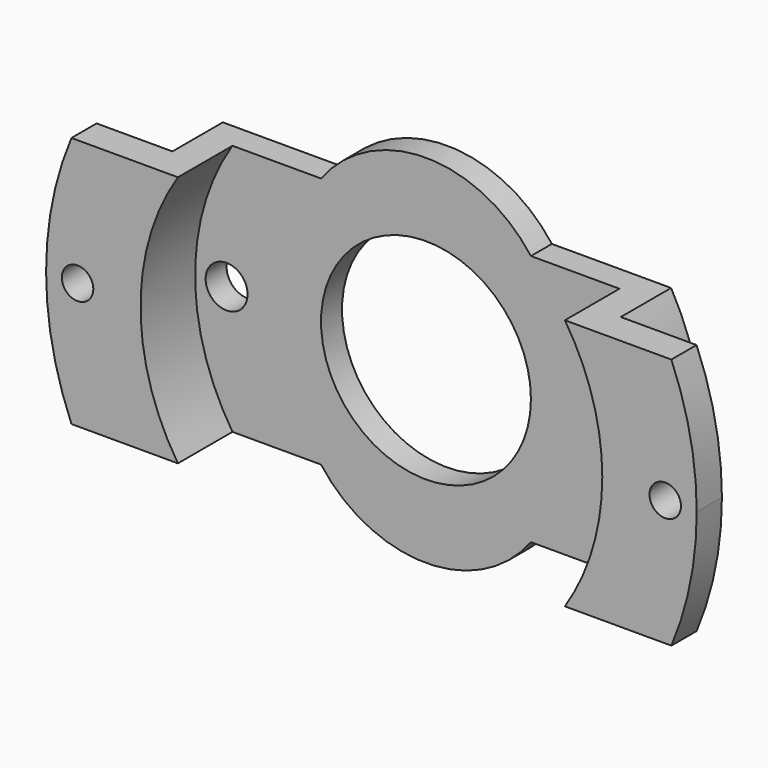
from build123d import *

# Parameters (mm, degrees)
F0_R     = 2
F0_R_2   = 10
F1_DEPTH = 2.5
F2_DEPTH = 9
F3_R     = 1.5
F4_DEPTH = 3
F5_DEPTH = 2.5


with BuildPart() as f1:
    # F0 (on Front) → F1 (new body)
    with BuildSketch(Plane.XZ):
        with BuildLine():
            ThreePointArc((22, 0), (21.090993, 6.258596), (18.439089, 12))
            Line((18.439089, 12), (10, 12))
            Line((10, 12), (-10, 12))
            Line((-10, 12), (-18.439089, 12))
            ThreePointArc((-18.439089, 12), (-22, 0), (-18.439089, -12))
            Line((-18.439089, -12), (-10, -12))
            Line((-10, -12), (10, -12))
            Line((10, -12), (18.439089, -12))
            ThreePointArc((18.439089, -12), (21.090993, -6.258596), (22, 0))
        make_face()
        with Locations((-19, 0)):
            Circle(F0_R, mode=Mode.SUBTRACT)
        Circle(F0_R_2, mode=Mode.SUBTRACT)
        with Locations((19, 0)):
            Circle(F0_R, mode=Mode.SUBTRACT)
    extrude(amount=F1_DEPTH)

    # F0 (on Front) → F2 (join)
    with BuildSketch(Plane.XZ):
        with BuildLine():
            ThreePointArc((24.5, 0), (23.702007, 6.202007), (21.360009, 12))
            Line((21.360009, 12), (18.439089, 12))
            ThreePointArc((18.439089, 12), (21.090993, 6.258596), (22, 0))
            ThreePointArc((22, 0), (21.090993, -6.258596), (18.439089, -12))
            Line((18.439089, -12), (21.360009, -12))
            ThreePointArc((21.360009, -12), (23.702007, -6.202007), (24.5, 0))
        make_face()
        with BuildLine():
            Line((-18.439089, 12), (-21.360009, 12))
            ThreePointArc((-21.360009, 12), (-24.5, 0), (-21.360009, -12))
            Line((-21.360009, -12), (-18.439089, -12))
            ThreePointArc((-18.439089, -12), (-22, 0), (-18.439089, 12))
        make_face()
    extrude(amount=F2_DEPTH)

    # F3 (on face) → F4 (join)
    with BuildSketch(Plane.XZ.offset(9)):
        with BuildLine():
            Line((-21.360009, 12), (-28.583212, 12))
            ThreePointArc((-28.583212, 12), (-31, 0), (-28.583212, -12))
            Line((-28.583212, -12), (-21.360009, -12))
            ThreePointArc((-21.360009, -12), (-24.5, 0), (-21.360009, 12))
        make_face()
        with Locations((-28, 0)):
            Circle(F3_R, mode=Mode.SUBTRACT)
        with BuildLine():
            ThreePointArc((28.583212, -12), (30.389797, -6.120475), (31, 0))
            ThreePointArc((31, 0), (30.389797, 6.120475), (28.583212, 12))
            Line((28.583212, 12), (21.360009, 12))
            ThreePointArc((21.360009, 12), (23.702007, 6.202007), (24.5, 0))
            ThreePointArc((24.5, 0), (23.702007, -6.202007), (21.360009, -12))
            Line((21.360009, -12), (28.583212, -12))
        make_face()
        with Locations((28, 0)):
            Circle(F3_R, mode=Mode.SUBTRACT)
    extrude(amount=-F4_DEPTH)

    # F0 (on Front) → F5 (join)
    with BuildSketch(Plane.XZ):
        with BuildLine():
            Line((-10, 12), (10, 12))
            ThreePointArc((10, 12), (0, 17), (-10, 12))
        make_face()
        with BuildLine():
            ThreePointArc((-10, -12), (0, -17), (10, -12))
            Line((10, -12), (-10, -12))
        make_face()
    extrude(amount=F5_DEPTH)


solid = f1.part
